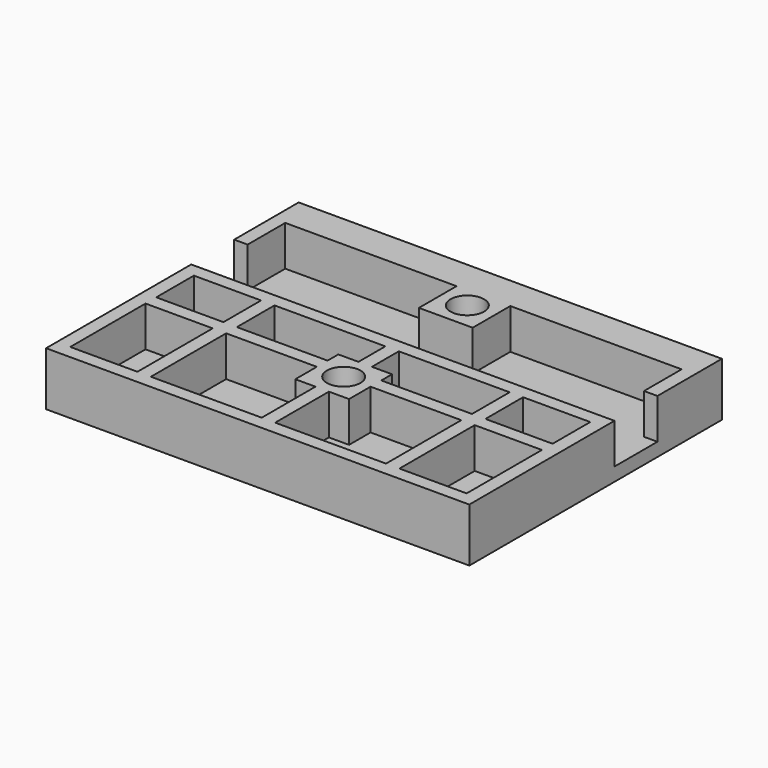
from build123d import *

# Parameters (mm, degrees)
F0_W      = 50.00625
F0_H      = 37.30625
F0_R      = 1.984375
F0_W_2    = 19.05
F0_H_2    = 5.55625
F1_DEPTH  = 6.35
F2_W      = 7.9375
F2_H      = 5.55625
F2_H_2    = 11.1125
F3_DEPTH  = 4.7625
F5_R      = 1.984375
F6_R      = 2.778125
F8_R      = 2.778125
F9_R      = 1.984375
F11_W     = 19.05
F11_H     = 6.35
F12_DEPTH = 25.4


with BuildPart() as f1:
    # F0 (on Top) → F1 (new body)
    with BuildSketch(Plane.XY):
        Rectangle(F0_W, F0_H)
        with Locations((0, -5.953125)):
            Circle(F0_R, mode=Mode.SUBTRACT)
        with Locations((0, 5.953125)):
            Rectangle(F0_W_2, F0_H_2, mode=Mode.SUBTRACT)
        with Locations((0, 12.303125)):
            Circle(F0_R, mode=Mode.SUBTRACT)
    extrude(amount=F1_DEPTH)

    # F2 (on face) → F3 (cut)
    with BuildSketch(Plane.XY.offset(6.35)):
        Polygon((-3.175, 14.684375), (-23.415625, 14.684375), (-23.415625, 9.128125), (-25.003125, 9.128125), (-25.003125, 2.778125), (-23.415625, 2.778125), (0, 2.778125), (23.415625, 2.778125), (25.003125, 2.778125), (25.003125, 9.128125), (23.415625, 9.128125), (23.415625, 14.684375), (3.175, 14.684375), (3.175, 9.128125), (-3.175, 9.128125), align=None)
        with Locations((-19.446875, -1.5875)):
            Rectangle(F2_W, F2_H)
        Polygon((-0.79375, 1.190625), (-13.890625, 1.190625), (-13.890625, -4.365625), (-3.175, -4.365625), (-3.175, -2.778125), (-0.79375, -2.778125), align=None)
        with Locations((-19.446875, -11.509375)):
            Rectangle(F2_W, F2_H_2)
        Polygon((-3.175, -5.953125), (-13.890625, -5.953125), (-13.890625, -17.065625), (-0.79375, -17.065625), (-0.79375, -9.128125), (-3.175, -9.128125), align=None)
        Polygon((0.79375, -2.778125), (3.175, -2.778125), (3.175, -4.365625), (13.890625, -4.365625), (13.890625, 1.190625), (0.79375, 1.190625), align=None)
        Polygon((13.890625, -5.953125), (3.175, -5.953125), (3.175, -9.128125), (0.79375, -9.128125), (0.79375, -17.065625), (13.890625, -17.065625), align=None)
        with Locations((19.446875, -1.5875)):
            Rectangle(F2_W, F2_H)
        with Locations((19.446875, -11.509375)):
            Rectangle(F2_W, F2_H_2)
    extrude(amount=-F3_DEPTH, mode=Mode.SUBTRACT)

    # F5 (on offset) → F7 section 0
    with BuildSketch(Plane(origin=(0, 0, 1.5875), x_dir=(1, 0, 0), z_dir=(0, 0, -1))):
        with Locations((0, -12.303125)):
            Circle(F5_R)
    # F6 (on face) → F7 section 1
    with BuildSketch(Plane(origin=(0, 0, 0), x_dir=(1, 0, 0), z_dir=(0, 0, -1))):
        with Locations((0, -12.303125)):
            Circle(F6_R)
    loft(mode=Mode.SUBTRACT)

    # F8 (on face) → F10 section 0
    with BuildSketch(Plane(origin=(0, 0, 0), x_dir=(1, 0, 0), z_dir=(0, 0, -1))):
        with Locations((0, 5.953125)):
            Circle(F8_R)
    # F9 (on offset) → F10 section 1
    with BuildSketch(Plane(origin=(0, 0, 1.5875), x_dir=(1, 0, 0), z_dir=(0, 0, -1))):
        with Locations((0, 5.953125)):
            Circle(F9_R)
    loft(mode=Mode.SUBTRACT)

    # F11 (on face) → F12 (cut)
    with BuildSketch(Plane.XY.offset(1.5875)):
        with Locations((0, 5.953125)):
            Rectangle(F11_W, F11_H)
    extrude(amount=-F12_DEPTH, mode=Mode.SUBTRACT)


solid = f1.part
